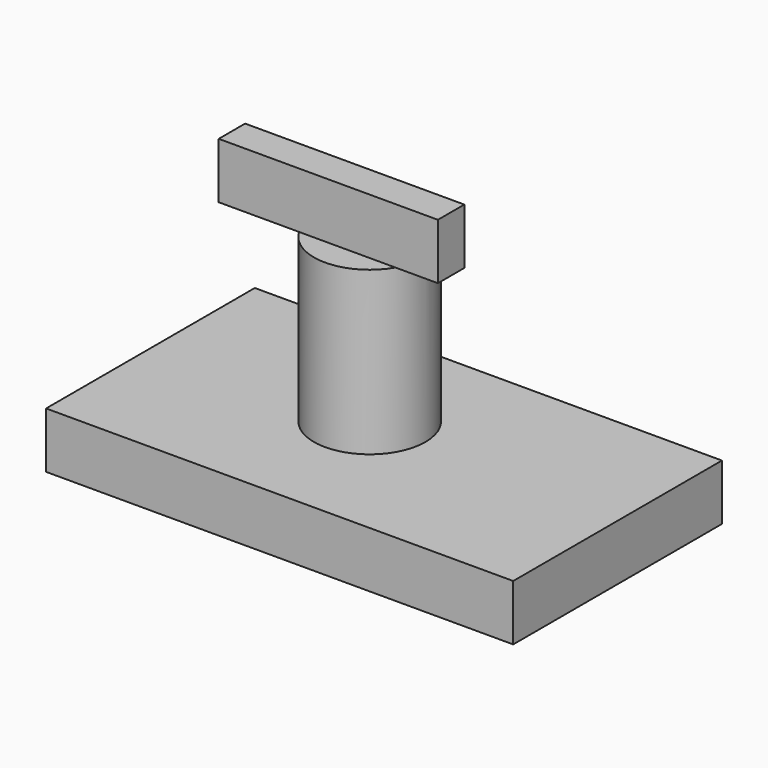
from build123d import *

# Parameters (mm, degrees)
F0_W     = 212.473422
F0_H     = 118.670951
F0_R     = 25.345002
F1_DEPTH = 25.4
F2_R     = 25.345002
F3_DEPTH = 73.914
F4_W     = 99.704434
F4_H     = 15.019846
F5_DEPTH = 25.4


with BuildPart() as f1:
    # F0 (on Top) → F1 (new body)
    with BuildSketch(Plane.XY):
        with Locations((-37.037164, 0.452341)):
            Rectangle(F0_W, F0_H)
        with Locations((-47.291335, 5.11729)):
            Circle(F0_R, mode=Mode.SUBTRACT)
    extrude(amount=F1_DEPTH)


with BuildPart() as f3:
    # F2 (on face) → F3 (new body)
    with BuildSketch(Plane.XY.offset(25.4)):
        with Locations((-47.291335, 5.11729)):
            Circle(F2_R)
    extrude(amount=F3_DEPTH)

    # F4 (on face) → F5 (join)
    with BuildSketch(Plane.XY.offset(99.314)):
        with Locations((-55.924056, -0.097914)):
            Rectangle(F4_W, F4_H)
    extrude(amount=F5_DEPTH)


solid = Compound([f1.part, f3.part])
